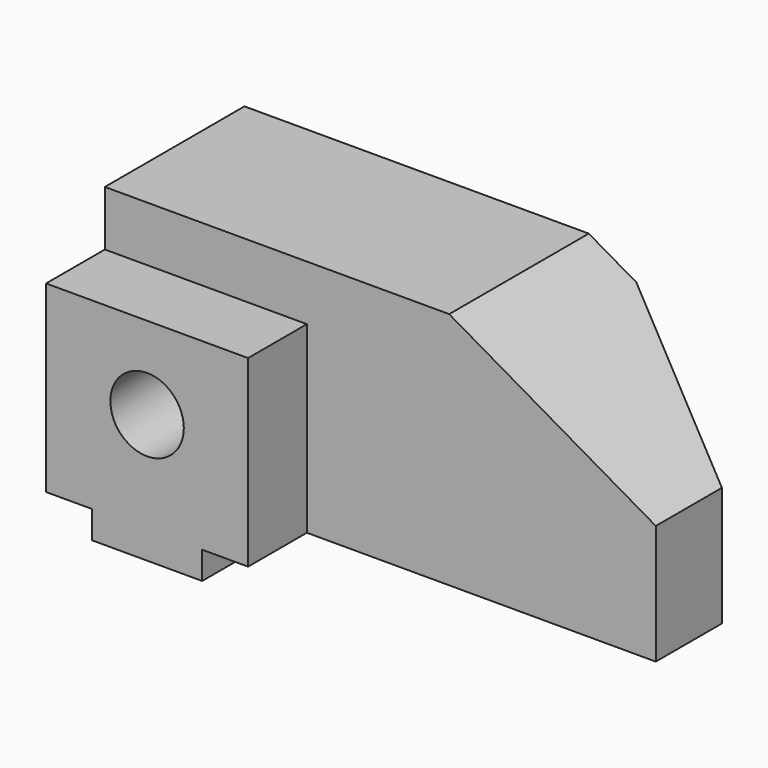
from build123d import *

# Parameters (mm, degrees)
F1_DEPTH = 38
F0_R     = 8
F2_DEPTH = 54
F4_DEPTH = 52.001
F5_R     = 8
F6_DEPTH = 22


with BuildPart() as f1:
    # F0 (on Front) → F1 (new body)
    with BuildSketch(Plane.XZ):
        Polygon((120, 26.0192378865), (75, 52), (75, 0), (120, 0), align=None)
        Polygon((0, 52), (0, 40), (44, 40), (44, 0), (75, 0), (75, 52), align=None)
    extrude(amount=F1_DEPTH)

    # F3 (on face) → F4 (cut, through all)
    with BuildSketch(Plane(origin=(0, 0, 0), x_dir=(1, 0, 0), z_dir=(0, 0, -1))):
        Polygon((85.3589838486, 0), (120, 0), (120, 20), align=None)
    extrude(amount=-F4_DEPTH, mode=Mode.SUBTRACT)


with BuildPart() as f2:
    # F0 (on Front) → F2 (new body)
    with BuildSketch(Plane.XZ):
        Polygon((0, 40), (0, 0), (10, 0), (10, -6), (34, -6), (34, 0), (44, 0), (44, 40), align=None)
        with Locations((22, 22)):
            Circle(F0_R, mode=Mode.SUBTRACT)
        with Locations((22, 22)):
            Circle(F0_R)
    extrude(amount=F2_DEPTH)

    # F5 (on face) → F6 (cut)
    with BuildSketch(Plane.XZ.offset(54)):
        with Locations((22, 22)):
            Circle(F5_R)
    extrude(amount=-F6_DEPTH, mode=Mode.SUBTRACT)


solid = Compound([f1.part, f2.part])
